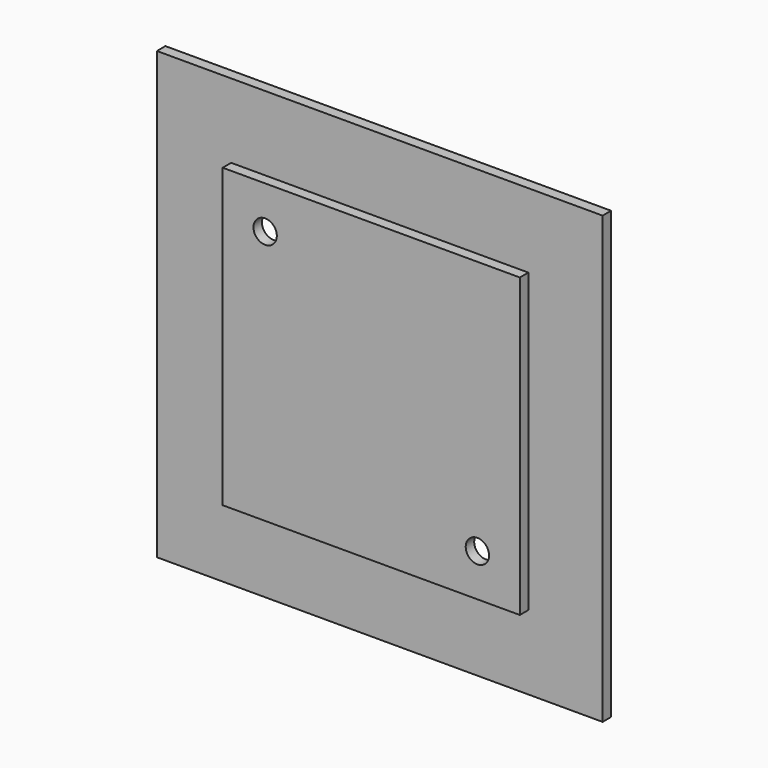
from build123d import *

# Parameters (mm, degrees)
SKETCH032_W     = 42
SKETCH032_H     = 42
PAD111_DEPTH    = 2
SKETCH165_W     = 24
SKETCH165_H     = 24
POCKET008_DEPTH = 1
SKETCH167_W     = 42
SKETCH167_H     = 42
SKETCH167_W_2   = 28
SKETCH167_H_2   = 28
POCKET009_DEPTH = 1
SKETCH300_R     = 1.1
POCKET045_DEPTH = 5


with BuildPart() as part:
    # Sketch032 → Pad111 (new body)
    with BuildSketch(Plane.XZ):
        Rectangle(SKETCH032_W, SKETCH032_H)
    extrude(amount=PAD111_DEPTH)

    # Sketch165 (on Face5 of Pad111) → Pocket008 (cut)
    with BuildSketch(Plane(origin=(0, 0, 0), x_dir=(1, 0, 0), z_dir=(0, 1, 0))):
        Rectangle(SKETCH165_W, SKETCH165_H)
    extrude(amount=-POCKET008_DEPTH, mode=Mode.SUBTRACT)

    # Sketch167 (on Face5 of Pocket008) → Pocket009 (cut)
    with BuildSketch(Plane.XZ.offset(2)):
        Rectangle(SKETCH167_W, SKETCH167_H)
        Rectangle(SKETCH167_W_2, SKETCH167_H_2, mode=Mode.SUBTRACT)
    extrude(amount=-POCKET009_DEPTH, mode=Mode.SUBTRACT)

    # Sketch300 (on Face16 of Pocket009) → Pocket045 (cut)
    with BuildSketch(Plane.XZ.offset(2)):
        with Locations((-10, 10)):
            Circle(SKETCH300_R)
        with Locations((10, -10)):
            Circle(SKETCH300_R)
    extrude(amount=-POCKET045_DEPTH, mode=Mode.SUBTRACT)


with BuildPart() as part_1:
    # Body012 placement: moved
    add(part.part.moved(Location((0, 7.5, 17.5))))


solid = part_1.part
